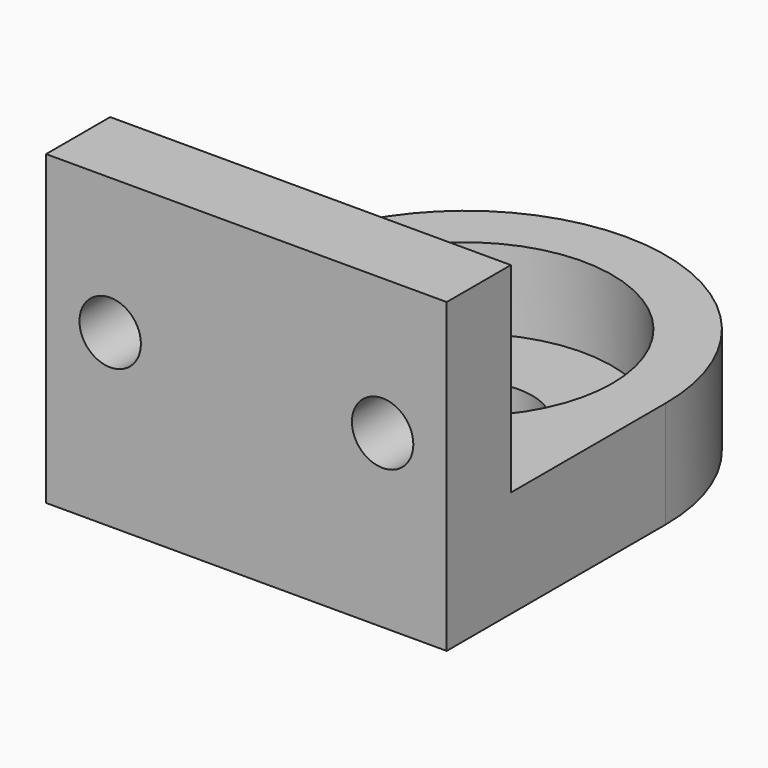
from build123d import *

# Parameters (mm, degrees)
PAD_DEPTH       = 8
SKETCH001_R     = 11
POCKET_DEPTH    = 6
SKETCH002_R     = 5
POCKET001_DEPTH = 2
SKETCH003_W     = 30
SKETCH003_H     = 6
PAD001_DEPTH    = 15
SKETCH004_R     = 2.3
POCKET002_DEPTH = 6


with BuildPart() as part:
    # Sketch → Pad (new body)
    with BuildSketch(Plane.XY):
        with BuildLine():
            ThreePointArc((15, 20.679889), (0, 35.679889), (-15, 20.679889))
            Line((-15, 20.679889), (-15, 0.179889))
            Line((-15, 0.179889), (15, 0.179889))
            Line((15, 20.679889), (15, 0.179889))
        make_face()
    extrude(amount=PAD_DEPTH)

    # Sketch001 (on Face6 of Pad) → Pocket (cut)
    with BuildSketch(Plane.XY.offset(8)):
        with Locations((0, 20.679889)):
            Circle(SKETCH001_R)
    extrude(amount=-POCKET_DEPTH, mode=Mode.SUBTRACT)

    # Sketch002 (on Face4 of Pocket) → Pocket001 (cut)
    with BuildSketch(Plane(origin=(0, 0, 0), x_dir=(1, 0, 0), z_dir=(0, 0, -1))):
        with Locations((0, -20.679889)):
            Circle(SKETCH002_R)
    extrude(amount=-POCKET001_DEPTH, mode=Mode.SUBTRACT)

    # Sketch003 (on Face5 of Pocket001) → Pad001 (join)
    with BuildSketch(Plane.XY.offset(8)):
        with Locations((0, 3.179889)):
            Rectangle(SKETCH003_W, SKETCH003_H)
    extrude(amount=PAD001_DEPTH)

    # Sketch004 (on Face12 of Pad001) → Pocket002 (cut)
    with BuildSketch(Plane.XZ.offset(-0.179889)):
        with Locations((-10.2, 12.8)):
            Circle(SKETCH004_R)
        with Locations((10.2, 12.8)):
            Circle(SKETCH004_R)
    extrude(amount=-POCKET002_DEPTH, mode=Mode.SUBTRACT)


solid = part.part
